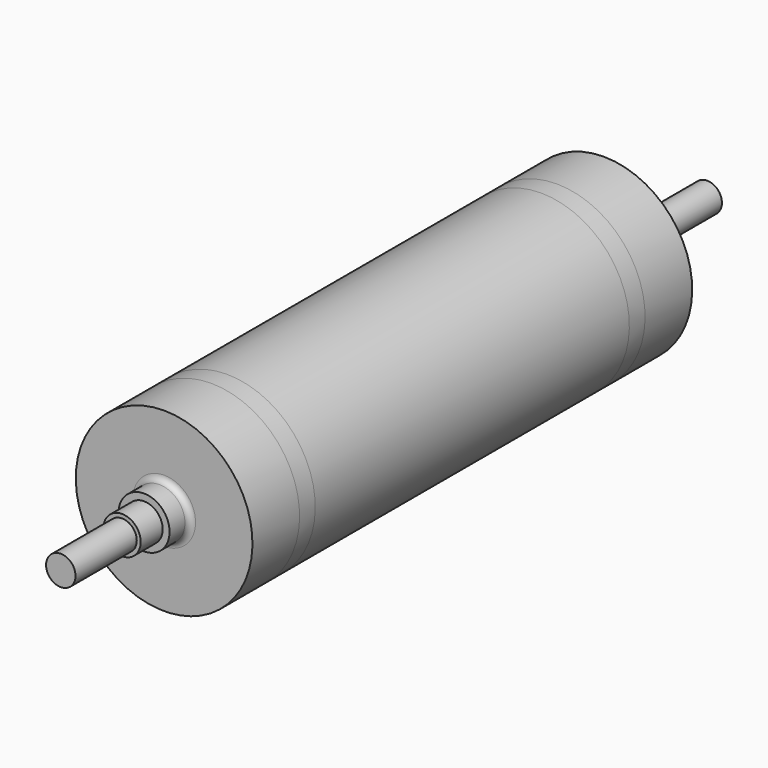
from build123d import *

# Parameters (mm, degrees)
F0_W = 195
F0_H = 37.5


with BuildPart() as f1:
    # F0 (on Right) → F1 (revolve)
    with BuildSketch(Plane.YZ):
        with BuildLine():
            ThreePointArc((15, 65), (4.393398, 69.393398), (0, 80))
            Line((0, 80), (0, 225))
            Line((0, 225), (-150, 225))
            Line((-150, 225), (-200, 224.925))
            Line((-200, 224.925), (-700, 224.925))
            Line((-700, 224.925), (-700, 0))
            Line((-700, 0), (0, 0))
            Line((0, 0), (64, 0))
            Line((64, 0), (64, 47.5))
            Line((64, 47.5), (64, 65))
            Line((64, 65), (15, 65))
        make_face()
        Polygon((134, 47.5), (64, 47.5), (64, 0), (134, 0), (134, 37.5), align=None)
        Polygon((-700, 0), (-700, 224.925), (-1200, 224.925), (-1250, 225), (-1400, 225), (-1400, 80), (-1400, 0), align=None)
        with Locations((231.5, 18.75)):
            Rectangle(F0_W, F0_H)
        with BuildLine():
            Line((-1464, 0), (-1400, 0))
            Line((-1400, 0), (-1400, 80))
            ThreePointArc((-1400, 80), (-1404.393398, 69.393398), (-1415, 65))
            Line((-1415, 65), (-1464, 65))
            Line((-1464, 65), (-1464, 47.5))
            Line((-1464, 47.5), (-1464, 0))
        make_face()
        Polygon((-1534, 0), (-1464, 0), (-1464, 47.5), (-1534, 47.5), (-1534, 37.5), align=None)
        with Locations((-1631.5, 18.75)):
            Rectangle(F0_W, F0_H)
    revolve(axis=Axis((0, -350, 0), (0, -1, 0)))


solid = f1.part
